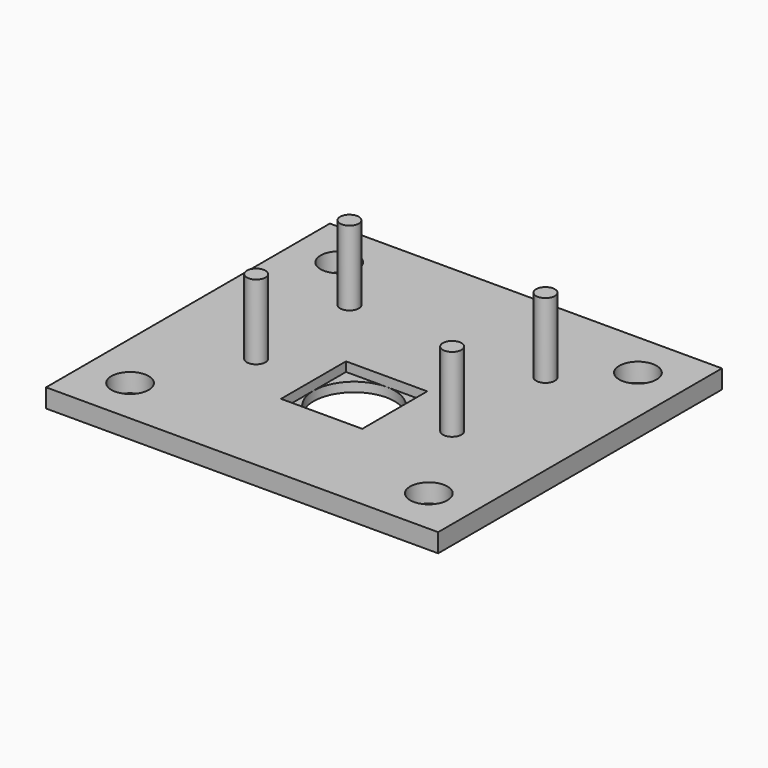
from build123d import *

# Parameters (mm, degrees)
CYLINDER002_R     = 1
CYLINDER002_DEPTH = 10
CYLINDER003_R     = 1
CYLINDER003_DEPTH = 10
CYLINDER004_R     = 1
CYLINDER004_DEPTH = 10
CYLINDER005_R     = 2
CYLINDER005_DEPTH = 10
CYLINDER006_R     = 2
CYLINDER006_DEPTH = 10
CYLINDER007_R     = 2
CYLINDER007_DEPTH = 10
CYLINDER008_R     = 2
CYLINDER008_DEPTH = 10
CYLINDER_R        = 4.35
CYLINDER_DEPTH    = 10
BOX_W             = 8.7
BOX_H             = 8.7
BOX_DEPTH         = 2
BOX001_W          = 42
BOX001_H          = 38
BOX001_DEPTH      = 2
CYLINDER001_R     = 1
CYLINDER001_DEPTH = 10


with BuildPart() as screw_support001:
    # Cylinder002 → Cylinder002 (new body)
    with BuildSketch(Plane(origin=(10.5, 0, 0), x_dir=(1, 0, 0), z_dir=(0, 0, 1))):
        Circle(CYLINDER002_R)
    extrude(amount=CYLINDER002_DEPTH)


with BuildPart() as screw_support002:
    # Cylinder003 → Cylinder003 (new body)
    with BuildSketch(Plane(origin=(-10.5, 12.5, 0), x_dir=(1, 0, 0), z_dir=(0, 0, 1))):
        Circle(CYLINDER003_R)
    extrude(amount=CYLINDER003_DEPTH)


with BuildPart() as screw_support003:
    # Cylinder004 → Cylinder004 (new body)
    with BuildSketch(Plane(origin=(10.5, 12.5, 0), x_dir=(1, 0, 0), z_dir=(0, 0, 1))):
        Circle(CYLINDER004_R)
    extrude(amount=CYLINDER004_DEPTH)


with BuildPart() as bolthole:
    # Cylinder005 → Cylinder005 (new body)
    with BuildSketch(Plane(origin=(-16, -10, 0), x_dir=(1, 0, 0), z_dir=(0, 0, 1))):
        Circle(CYLINDER005_R)
    extrude(amount=CYLINDER005_DEPTH)


with BuildPart() as bolthole001:
    # Cylinder006 → Cylinder006 (new body)
    with BuildSketch(Plane(origin=(16, 18, 0), x_dir=(1, 0, 0), z_dir=(0, 0, 1))):
        Circle(CYLINDER006_R)
    extrude(amount=CYLINDER006_DEPTH)


with BuildPart() as bolthole002:
    # Cylinder007 → Cylinder007 (new body)
    with BuildSketch(Plane(origin=(16, -10, 0), x_dir=(1, 0, 0), z_dir=(0, 0, 1))):
        Circle(CYLINDER007_R)
    extrude(amount=CYLINDER007_DEPTH)


with BuildPart() as bolthole003:
    # Cylinder008 → Cylinder008 (new body)
    with BuildSketch(Plane(origin=(-16, 18, 0), x_dir=(1, 0, 0), z_dir=(0, 0, 1))):
        Circle(CYLINDER008_R)
    extrude(amount=CYLINDER008_DEPTH)


with BuildPart() as cylinder:
    # Cylinder → Cylinder (new body)
    with BuildSketch(Plane.XY.offset(-3)):
        Circle(CYLINDER_R)
    extrude(amount=CYLINDER_DEPTH)


with BuildPart() as cube:
    # Box → Box (new body)
    with BuildSketch(Plane(origin=(-4.35, -4.35, 1), x_dir=(1, 0, 0), z_dir=(0, 0, 1))):
        with Locations((4.35, 4.35)):
            Rectangle(BOX_W, BOX_H)
    extrude(amount=BOX_DEPTH)


with BuildPart() as cut005:
    # Box001 → Box001 (new body)
    with BuildSketch(Plane(origin=(-21, -15, 0), x_dir=(1, 0, 0), z_dir=(0, 0, 1))):
        with Locations((21, 19)):
            Rectangle(BOX001_W, BOX001_H)
    extrude(amount=BOX001_DEPTH)

    # Cut: cut Cube
    add(cube.part, mode=Mode.SUBTRACT)

    # Cut001: cut Cylinder
    add(cylinder.part, mode=Mode.SUBTRACT)

    # Cut002: cut BoltHole003
    add(bolthole003.part, mode=Mode.SUBTRACT)

    # Cut003: cut BoltHole002
    add(bolthole002.part, mode=Mode.SUBTRACT)

    # Cut004: cut BoltHole001
    add(bolthole001.part, mode=Mode.SUBTRACT)

    # Cut005: cut BoltHole
    add(bolthole.part, mode=Mode.SUBTRACT)


with BuildPart() as fusion_camfront:
    # Cylinder001 → Cylinder001 (new body)
    with BuildSketch(Plane(origin=(-10.5, 0, 0), x_dir=(1, 0, 0), z_dir=(0, 0, 1))):
        Circle(CYLINDER001_R)
    extrude(amount=CYLINDER001_DEPTH)

    # Fusion: union screw support001, screw support002, screw support003, Cut005
    add(screw_support001.part)
    add(screw_support002.part)
    add(screw_support003.part)
    add(cut005.part)


solid = fusion_camfront.part
